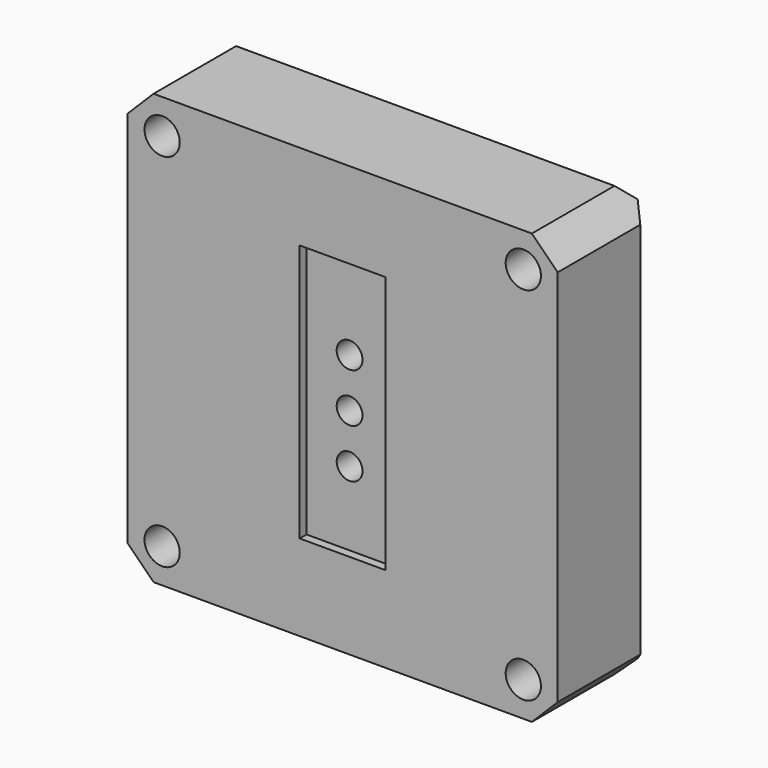
from build123d import *

# Parameters (mm, degrees)
F0_W      = 50
F0_H      = 50
F1_DEPTH  = 15
F2_W      = 10
F2_H      = 30
F3_DEPTH  = 1
F5_R      = 1.5
F6_DEPTH  = 4
F7_R      = 2.05
F8_DEPTH  = 7
F9_SIZE   = 3
F10_SIZE  = 3
F11_R     = 2.0899118634
F11_R_2   = 2.0672780913
F12_DEPTH = 12
F12_TAPER = 7


with BuildPart() as f1:
    # F0 (on Front) → F1 (new body)
    with BuildSketch(Plane.XZ):
        with Locations((25, 25)):
            Rectangle(F0_W, F0_H)
    extrude(amount=F1_DEPTH)

    # F2 (on face) → F3 (cut)
    with BuildSketch(Plane.XZ.offset(15)):
        with Locations((25, 25)):
            Rectangle(F2_W, F2_H)
    extrude(amount=-F3_DEPTH, mode=Mode.SUBTRACT)

    # F5 (on face) → F6 (cut)
    with BuildSketch(Plane.XZ.offset(15)):
        with Locations((25, 30)):
            Circle(F5_R)
        with Locations((25, 24.3)):
            Circle(F5_R)
        with Locations((25, 18.6)):
            Circle(F5_R)
    extrude(amount=-F6_DEPTH, mode=Mode.SUBTRACT)

    # F7 (on face) → F8 (cut)
    with BuildSketch(Plane.XZ.offset(15)):
        with Locations((46, 46)):
            Circle(F7_R)
        with Locations((46, 4)):
            Circle(F7_R)
        with Locations((4, 4)):
            Circle(F7_R)
        with Locations((4, 46)):
            Circle(F7_R)
    extrude(amount=-F8_DEPTH, mode=Mode.SUBTRACT)

    # F9
    f9_edges = [f1.edges().sort_by_distance(p)[0] for p in [
        (0, 0, 25),
        (25, 0, 0),
        (50, 0, 25),
        (25, 0, 50),
    ]]
    chamfer(f9_edges, length=F9_SIZE)

    # F10
    f10_edges = [f1.edges().sort_by_distance(p)[0] for p in [
        (0, -9, 50),
        (50, -9, 50),
        (50, -9, 0),
        (0, -9, 0),
    ]]
    chamfer(f10_edges, length=F10_SIZE)

    # F11 (on face) → F12 (cut)
    with BuildSketch(Plane(origin=(0, 0, 0), x_dir=(-1, 0, 0), z_dir=(0, 1, 0))):
        with Locations((-24.9610114843, 30.1139894873)):
            Circle(F11_R)
        with Locations((-24.8724594712, 18.6907239258)):
            Circle(F11_R_2)
    extrude(amount=-F12_DEPTH, taper=F12_TAPER, mode=Mode.SUBTRACT)


solid = f1.part
